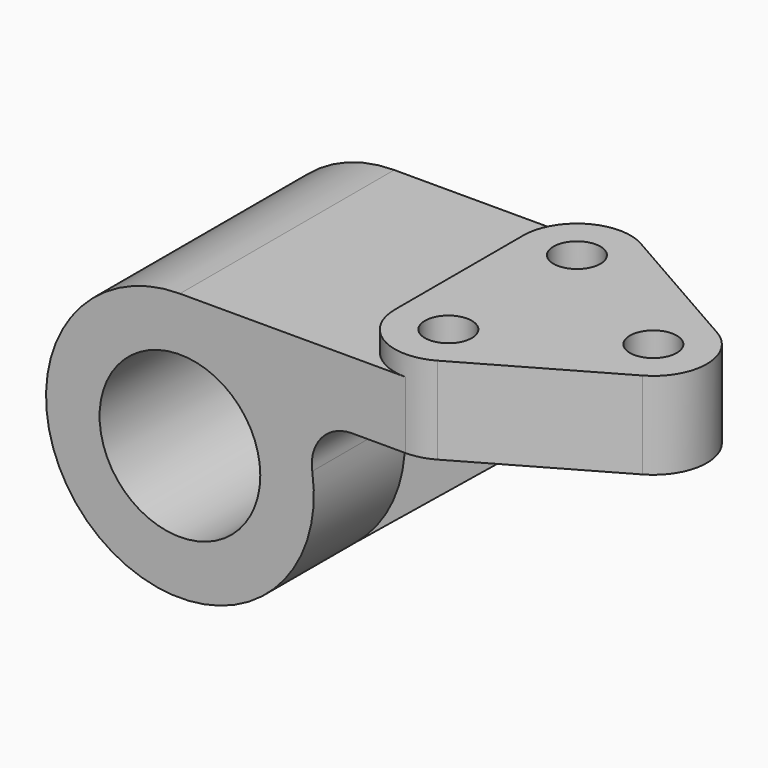
from build123d import *

# Parameters (mm, degrees)
F0_R     = 5.5626
F1_DEPTH = 20.6502
F2_R     = 19.05
F3_DEPTH = 31.75
F5_DEPTH = 4.7625
F6_R     = 5.5626
F7_DEPTH = 68.2762


with BuildPart() as f1:
    # F0 (on Top) → F1 (new body)
    with BuildSketch(Plane.XY):
        with BuildLine():
            ThreePointArc((18.9991554441, 30.0777214642), (6.3246284085, 30.0338352623), (0, 19.05))
            Line((0, 19.05), (0, -19.05))
            ThreePointArc((0, -19.05), (6.3246284085, -30.0338352623), (18.9991554441, -30.0777214642))
            Line((18.9991554441, -30.0777214642), (52.3493554441, -11.0277214642))
            ThreePointArc((52.3493554441, -11.0277214642), (58.7502, 0), (52.3493554441, 11.0277214642))
            Line((52.3493554441, 11.0277214642), (18.9991554441, 30.0777214642))
        make_face()
        with Locations((12.7, -19.05)):
            Circle(F0_R, mode=Mode.SUBTRACT)
        with Locations((12.7, 19.05)):
            Circle(F0_R, mode=Mode.SUBTRACT)
        with Locations((46.0502, 0)):
            Circle(F0_R, mode=Mode.SUBTRACT)
    extrude(amount=-F1_DEPTH)

    # F2 (on Front) → F3 (join, symmetric)
    with BuildSketch(Plane.XZ):
        with BuildLine():
            Line((12.7, -4.7752), (-40.7836134373, -4.7752))
            ThreePointArc((-40.7836134373, -4.7752), (-61.4351988672, -60.6410561787), (-9.4116031009, -31.6405846154))
            ThreePointArc((-9.4116031009, -31.6405846154), (-7.2347568536, -23.979724371), (0, -20.6502))
            Line((0, -20.6502), (12.7, -20.6502))
            Line((12.7, -20.6502), (12.7, -4.7752))
        make_face()
        with Locations((-40.7836134373, -36.5252)):
            Circle(F2_R, mode=Mode.SUBTRACT)
    extrude(amount=F3_DEPTH, both=True)

    # F4 (on Front) → F5 (join, symmetric)
    with BuildSketch(Plane.XZ):
        with BuildLine():
            ThreePointArc((-9.4116031009, -31.6405846154), (-11.1459036377, -47.9124146654), (-20.7531221582, -61.1593616281))
            Line((-20.7531221582, -61.1593616281), (29.0663865627, -20.6502))
            Line((29.0663865627, -20.6502), (0, -20.6502))
            ThreePointArc((0, -20.6502), (-7.2347568536, -23.979724371), (-9.4116031009, -31.6405846154))
        make_face()
    extrude(amount=F5_DEPTH, both=True)

    # F6 (on face) → F7 (cut, through all)
    with BuildSketch(Plane.XY):
        with Locations((12.7, -19.05)):
            Circle(F6_R)
        with Locations((12.7, 19.05)):
            Circle(F6_R)
    extrude(amount=-F7_DEPTH, mode=Mode.SUBTRACT)


solid = f1.part
